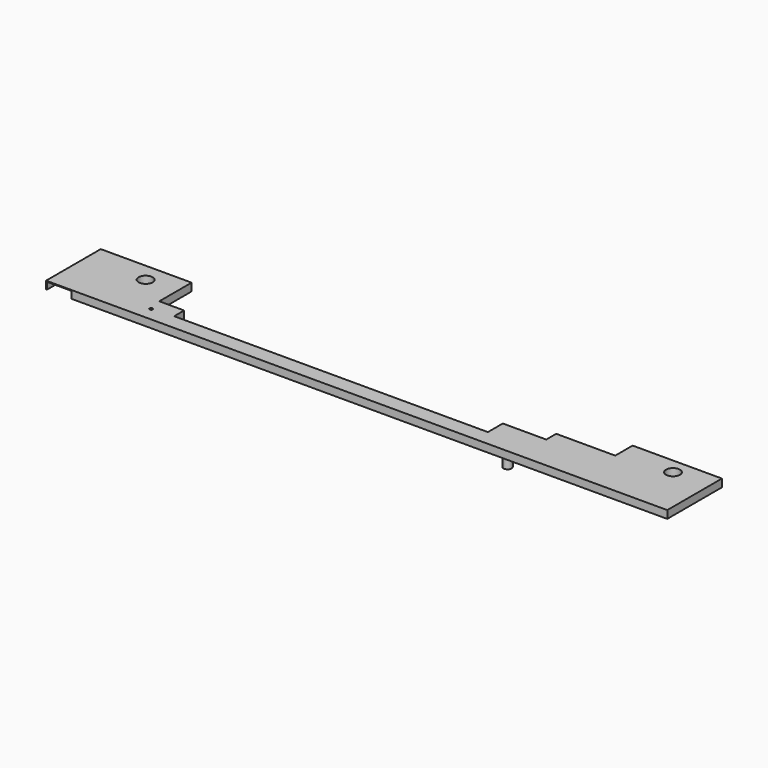
from build123d import *

# Parameters (mm, degrees)
BOX_W             = 200
BOX_H             = 22
BOX_DEPTH         = 2.5
CYLINDER_R        = 2.25
CYLINDER_DEPTH    = 2.5
CYLINDER001_R     = 2.25
CYLINDER001_DEPTH = 2.5
CYLINDER003_R     = 1.3
CYLINDER003_DEPTH = 6
CYLINDER004_R     = 0.5
CYLINDER004_DEPTH = 2.5
BOX003_W          = 8
BOX003_H          = 22
BOX003_DEPTH      = 10
BOX004_W          = 101
BOX004_H          = 10
BOX004_DEPTH      = 2.5
BOX005_W          = 142
BOX005_H          = 7
BOX005_DEPTH      = 2.5
BOX006_W          = 8
BOX006_H          = 6
BOX006_DEPTH      = 10
BOX007_W          = 14
BOX007_H          = 4
BOX007_DEPTH      = 2.5


with BuildPart() as part:
    # Box → Box (join)
    with BuildSketch(Plane.XY):
        with Locations((100, 11)):
            Rectangle(BOX_W, BOX_H)
    extrude(amount=BOX_DEPTH)

    # Cylinder → Cylinder (cut)
    with BuildSketch(Plane(origin=(19.25, 16, 0), x_dir=(1, 0, 0), z_dir=(0, 0, 1))):
        Circle(CYLINDER_R)
    extrude(amount=CYLINDER_DEPTH, mode=Mode.SUBTRACT)

    # Cylinder001 → Cylinder001 (cut)
    with BuildSketch(Plane(origin=(188.25, 17, 0), x_dir=(1, 0, 0), z_dir=(0, 0, 1))):
        Circle(CYLINDER001_R)
    extrude(amount=CYLINDER001_DEPTH, mode=Mode.SUBTRACT)

    # Cylinder003 → Cylinder003 (join)
    with BuildSketch(Plane(origin=(145, 4.5, -5), x_dir=(1, 0, 0), z_dir=(0, 0, 1))):
        Circle(CYLINDER003_R)
    extrude(amount=CYLINDER003_DEPTH)

    # Cylinder004 → Cylinder004 (cut)
    with BuildSketch(Plane(origin=(30.25, 4.5, 2.5), x_dir=(1, 0, 0), z_dir=(0, 0, -1))):
        Circle(CYLINDER004_R)
    extrude(amount=CYLINDER004_DEPTH, mode=Mode.SUBTRACT)

    # Box003 → Box003 (cut)
    with BuildSketch(Plane(origin=(0.25, 22, 2.25), x_dir=(1, 0, 0), z_dir=(0, 0, -1))):
        with Locations((4, 11)):
            Rectangle(BOX003_W, BOX003_H)
    extrude(amount=BOX003_DEPTH, mode=Mode.SUBTRACT)

    # Box004 → Box004 (cut)
    with BuildSketch(Plane(origin=(37.25, 15, 2.5), x_dir=(1, 0, 0), z_dir=(0, 0, -1))):
        with Locations((50.5, 5)):
            Rectangle(BOX004_W, BOX004_H)
    extrude(amount=BOX004_DEPTH, mode=Mode.SUBTRACT)

    # Box005 → Box005 (cut)
    with BuildSketch(Plane(origin=(29.25, 22, 2.5), x_dir=(1, 0, 0), z_dir=(0, 0, -1))):
        with Locations((71, 3.5)):
            Rectangle(BOX005_W, BOX005_H)
    extrude(amount=BOX005_DEPTH, mode=Mode.SUBTRACT)

    # Box006 → Box006 (cut)
    with BuildSketch(Plane(origin=(29.25, 15, 2.5), x_dir=(1, 0, 0), z_dir=(0, 0, -1))):
        with Locations((4, 3)):
            Rectangle(BOX006_W, BOX006_H)
    extrude(amount=BOX006_DEPTH, mode=Mode.SUBTRACT)

    # Box007 → Box007 (cut)
    with BuildSketch(Plane(origin=(138.25, 15, 2.5), x_dir=(1, 0, 0), z_dir=(0, 0, -1))):
        with Locations((7, 2)):
            Rectangle(BOX007_W, BOX007_H)
    extrude(amount=BOX007_DEPTH, mode=Mode.SUBTRACT)


solid = part.part
